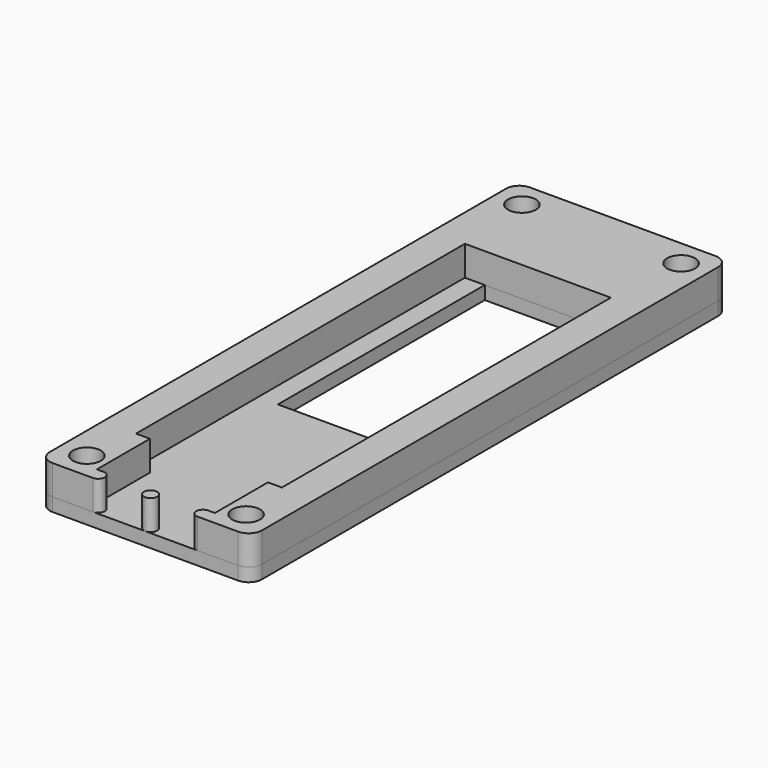
from build123d import *

# Parameters (mm, degrees)
SKETCH_W         = 32
SKETCH_H         = 90
SKETCH_R         = 2.1
SKETCH_W_2       = 16
SKETCH_H_2       = 39
EXTRUDE_DEPTH    = 2
FILLET_R         = 2
SKETCH001_R      = 1
SKETCH001_R_2    = 2.1
EXTRUDE001_DEPTH = 4.5
FILLET001_R      = 2


with BuildPart() as fillet_body:
    # Sketch → Extrude (new body)
    with BuildSketch(Plane.XY):
        Rectangle(SKETCH_W, SKETCH_H)
        with Locations((-12, 41)):
            Circle(SKETCH_R, mode=Mode.SUBTRACT)
        with Locations((12, 41)):
            Circle(SKETCH_R, mode=Mode.SUBTRACT)
        with Locations((-12, -41)):
            Circle(SKETCH_R, mode=Mode.SUBTRACT)
        with Locations((12, -41)):
            Circle(SKETCH_R, mode=Mode.SUBTRACT)
        with Locations((0, 9.5)):
            Rectangle(SKETCH_W_2, SKETCH_H_2, mode=Mode.SUBTRACT)
    extrude(amount=EXTRUDE_DEPTH)

    # Fillet
    fillet_edges = [fillet_body.edges().sort_by_distance(p)[0] for p in [
        (-16, 45, 1),
        (16, 45, 1),
        (16, -45, 1),
        (-16, -45, 1),
    ]]
    fillet(fillet_edges, radius=FILLET_R)


with BuildPart() as fillet001:
    # Sketch001 (on Face14 of Extrude) → Extrude001 (new body)
    with BuildSketch(Plane.XY.offset(2)):
        with Locations((0, -44)):
            Circle(SKETCH001_R)
        with BuildLine():
            ThreePointArc((7.9, -43), (6.9, -44), (7.9, -45))
            Line((7.9, -45), (16, -45))
            Line((16, -45), (16, 45))
            Line((-16, 45), (16, 45))
            Line((-16, -45), (-16, 45))
            Line((-7.9, -45), (-16, -45))
            ThreePointArc((-7.9, -45), (-6.9, -44), (-7.9, -43))
            Line((-7.9, -43), (-8.9, -43))
            Line((-8.9, -43), (-8.9, -33))
            Line((-8.9, -33), (-11, -33))
            Line((-11, 29), (-11, -33))
            Line((-11, 29), (11, 29))
            Line((11, 29), (11, -33))
            Line((11, -33), (8.9, -33))
            Line((8.9, -43), (8.9, -33))
            Line((7.9, -43), (8.9, -43))
        make_face()
        with Locations((-12, -41)):
            Circle(SKETCH001_R_2, mode=Mode.SUBTRACT)
        with Locations((12, 41)):
            Circle(SKETCH001_R_2, mode=Mode.SUBTRACT)
        with Locations((12, -41)):
            Circle(SKETCH001_R_2, mode=Mode.SUBTRACT)
        with Locations((-12, 41)):
            Circle(SKETCH001_R_2, mode=Mode.SUBTRACT)
    extrude(amount=EXTRUDE001_DEPTH)

    # Fillet001
    fillet001_edges = [fillet001.edges().sort_by_distance(p)[0] for p in [
        (16, -45, 4.25),
        (16, 45, 4.25),
        (-16, 45, 4.25),
        (-16, -45, 4.25),
    ]]
    fillet(fillet001_edges, radius=FILLET001_R)


solid = Compound([fillet_body.part, fillet001.part])
